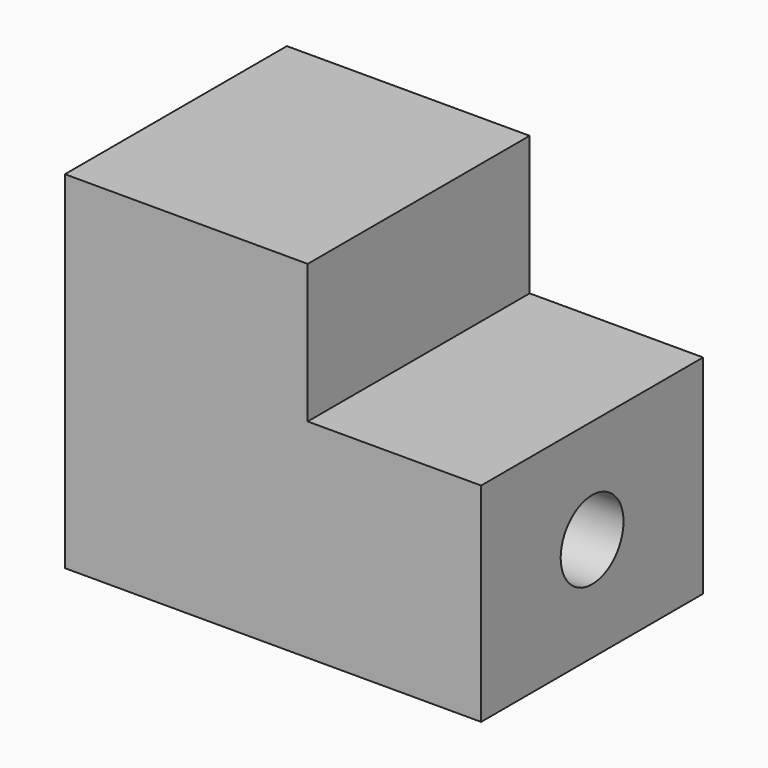
from build123d import *

# Parameters (mm, degrees)
F0_W     = 152.4
F0_H     = 101.6
F1_DEPTH = 127
F2_W     = 63.5
F2_H     = 50.8
F3_DEPTH = 101.6
F5_R     = 14.379735
F6_DEPTH = 152.4


with BuildPart() as f1:
    # F0 (on Top) → F1 (new body)
    with BuildSketch(Plane.XY):
        with Locations((16.524124, 4.168936)):
            Rectangle(F0_W, F0_H)
    extrude(amount=F1_DEPTH)

    # F2 (on face) → F3 (cut)
    with BuildSketch(Plane.XZ.offset(46.631064)):
        with Locations((60.974124, 101.6)):
            Rectangle(F2_W, F2_H)
    extrude(amount=-F3_DEPTH, mode=Mode.SUBTRACT)

    # F5 (on face) → F6 (cut)
    with BuildSketch(Plane(origin=(-59.675876, 0, 0), x_dir=(0, -1, 0), z_dir=(-1, 0, 0))):
        with Locations((-4.168936, 38.1)):
            Circle(F5_R)
    extrude(amount=-F6_DEPTH, mode=Mode.SUBTRACT)


solid = f1.part
